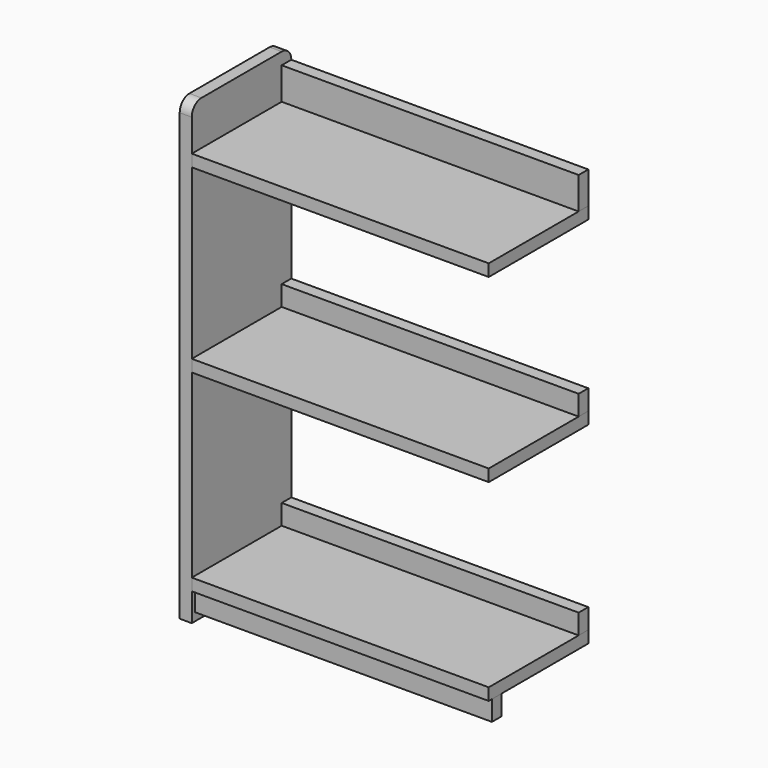
from build123d import *

# Parameters (mm, degrees)
F0_W     = 19.05
F0_H     = 50.8
F0_H_2   = 31.75
F1_DEPTH = 19.05
F2_DEPTH = 469.9
F3_DEPTH = 469.9
F4_R     = 19.05


with BuildPart() as f1:
    # F0 (on Right) → F1 (new body)
    with BuildSketch(Plane.YZ):
        with Locations((136.525, 628.466184)):
            Rectangle(F0_W, F0_H)
        Polygon((-50.8, 672.916184), (-50.8, 603.066184), (127, 603.066184), (127, 653.866184), (146.05, 653.866184), (146.05, 672.916184), align=None)
        Polygon((-50.8, 603.066184), (-50.8, 584.016184), (146.05, 584.016184), (146.05, 603.066184), (127, 603.066184), align=None)
        Polygon((-50.8, 584.016184), (-50.8, 317.316184), (127, 317.316184), (127, 349.066184), (146.05, 349.066184), (146.05, 584.016184), align=None)
        with Locations((136.525, 333.191184)):
            Rectangle(F0_W, F0_H_2)
        Polygon((-50.8, 298.266184), (146.05, 298.266184), (146.05, 317.316184), (127, 317.316184), (-50.8, 317.316184), align=None)
        Polygon((127, 44.266184), (146.05, 44.266184), (146.05, 298.266184), (-50.8, 298.266184), (-50.8, 12.516184), (127, 12.516184), align=None)
        with Locations((136.525, 28.391184)):
            Rectangle(F0_W, F0_H_2)
        with BuildLine():
            ThreePointArc((0, -50.983816), (47.625, -34.267422), (95.25, -50.983816))
            Line((95.25, -50.983816), (146.05, -50.983816))
            Line((146.05, -50.983816), (146.05, -6.533816))
            Line((146.05, -6.533816), (-25.4, -6.533816))
            Line((-25.4, -6.533816), (-25.4, -38.283816))
            Line((-25.4, -38.283816), (-44.45, -38.283816))
            Line((-44.45, -38.283816), (-44.45, -6.533816))
            Line((-44.45, -6.533816), (-50.8, -6.533816))
            Line((-50.8, -6.533816), (-50.8, -50.983816))
            Line((-50.8, -50.983816), (0, -50.983816))
        make_face()
        with Locations((-34.925, -22.408816)):
            Rectangle(F0_W, F0_H_2)
        Polygon((-25.4, -6.533816), (146.05, -6.533816), (146.05, 12.516184), (127, 12.516184), (-50.8, 12.516184), (-50.8, -6.533816), (-44.45, -6.533816), align=None)
    extrude(amount=-F1_DEPTH)

    # F4
    f4_edges = [f1.edges().sort_by_distance(p)[0] for p in [
        (-9.525, 146.05, 672.916184),
        (-9.525, -50.8, 672.916184),
    ]]
    fillet(f4_edges, radius=F4_R)


with BuildPart() as f2:
    # F0 (on Right) → F2 (new body)
    with BuildSketch(Plane.YZ):
        with Locations((136.525, 628.466184)):
            Rectangle(F0_W, F0_H)
        with Locations((136.525, 333.191184)):
            Rectangle(F0_W, F0_H_2)
        with Locations((136.525, 28.391184)):
            Rectangle(F0_W, F0_H_2)
        with Locations((-34.925, -22.408816)):
            Rectangle(F0_W, F0_H_2)
    extrude(amount=F2_DEPTH)


with BuildPart() as f3:
    # F0 (on Right) → F3 (new body)
    with BuildSketch(Plane.YZ):
        Polygon((-50.8, 603.066184), (-50.8, 584.016184), (146.05, 584.016184), (146.05, 603.066184), (127, 603.066184), align=None)
        Polygon((-50.8, 298.266184), (146.05, 298.266184), (146.05, 317.316184), (127, 317.316184), (-50.8, 317.316184), align=None)
        Polygon((-25.4, -6.533816), (146.05, -6.533816), (146.05, 12.516184), (127, 12.516184), (-50.8, 12.516184), (-50.8, -6.533816), (-44.45, -6.533816), align=None)
    extrude(amount=F3_DEPTH)


solid = Compound([f1.part, f2.part, f3.part])
